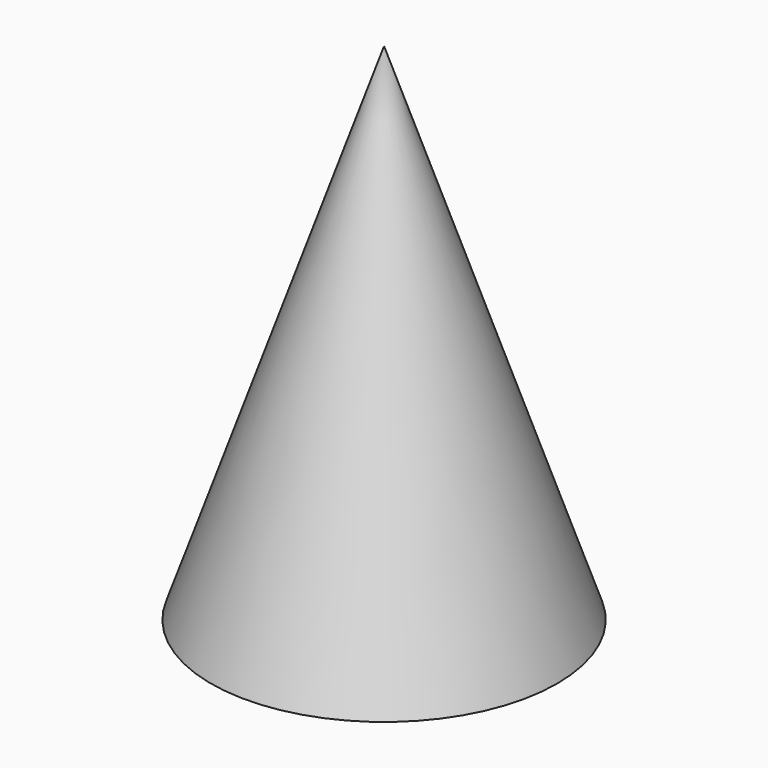
from build123d import *


with BuildPart() as f1:
    # F0 (on Front) → F1 (revolve)
    with BuildSketch(Plane.XZ):
        Polygon((0, 35), (0, 0), (12, 0), align=None)
    revolve(axis=Axis((0, 0, 17.5), (0, 0, 1)))

    # F2 (on Front) → F3 (revolve, cut)
    with BuildSketch(Plane.XZ):
        with BuildLine():
            Line((0, 0), (12, 0))
            ThreePointArc((12, 0), (6.108887, 1.71723), (0, 2.296523))
            Line((0, 2.296523), (0, 0))
        make_face()
    revolve(axis=Axis((0, 0, 1.148262), (0, 0, 1)), mode=Mode.SUBTRACT)


solid = f1.part
